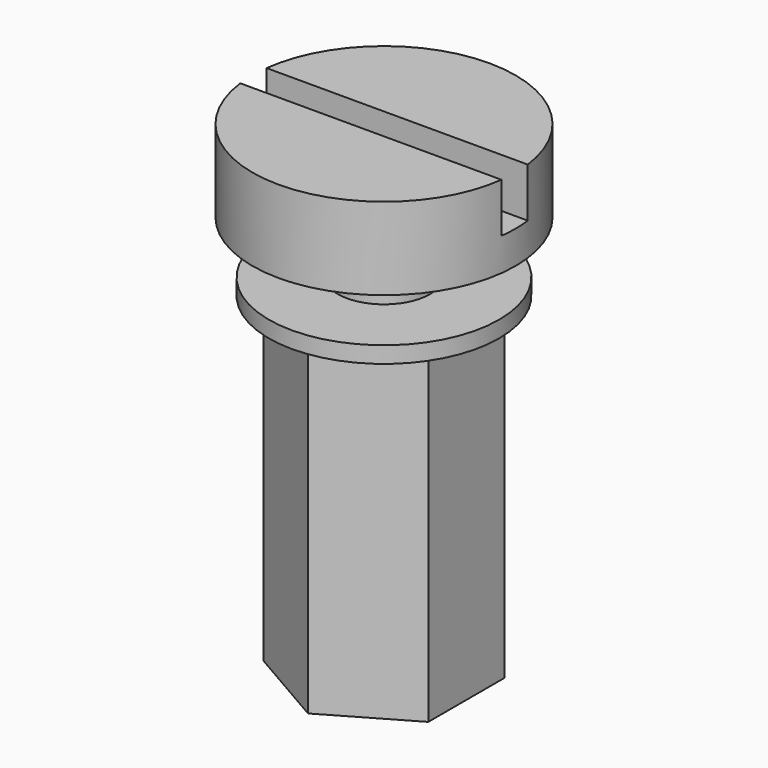
from build123d import *

# Parameters (mm, degrees)
PAD_DEPTH               = 10
SKETCH001_R             = 1.5
POCKET_DEPTH            = 10.001
SKETCH003_W             = 8
SKETCH003_H             = 1
POCKET001_DEPTH         = 1.5
BODY002_PLACEMENT_ANGLE = 180
CYLINDER_R              = 3.5
CYLINDER_DEPTH          = 0.5


with BuildPart() as post:
    # Sketch → Pad (new body)
    with BuildSketch(Plane.XY):
        Polygon((2.5, 1.443376), (0, 2.886751), (-2.5, 1.443376), (-2.5, -1.443376), (0, -2.886751), (2.5, -1.443376), align=None)
    extrude(amount=PAD_DEPTH)

    # Sketch001 (on Face8 of Pad) → Pocket (cut, through all)
    with BuildSketch(Plane.XY.offset(10)):
        Circle(SKETCH001_R)
    extrude(amount=-POCKET_DEPTH, mode=Mode.SUBTRACT)


with BuildPart() as post_1:
    # Body placement: moved
    add(post.part.moved(Location((0, 0, 0.5))))


with BuildPart() as screwhead_top:
    # Sketch002 → Revolution (revolve)
    with BuildSketch(Plane.XZ):
        Polygon((1.4, 0), (1.4, 6.6), (0, 6.6), (0, -2.5), (4, -2.5), (4, 0), align=None)
    revolve(axis=Axis((0, 0, 0), (0, 0, 1)))

    # Sketch003 (on Face3 of Revolution) → Pocket001 (cut)
    with BuildSketch(Plane(origin=(0, 0, -2.5), x_dir=(1, 0, 0), z_dir=(0, 0, -1))):
        Rectangle(SKETCH003_W, SKETCH003_H)
    extrude(amount=-POCKET001_DEPTH, mode=Mode.SUBTRACT)


with BuildPart() as screwhead_top_1:
    # Body001 placement: moved
    add(screwhead_top.part.moved(Location((0, 0, -1.6))))


with BuildPart() as screwhead_top_2:
    # Body002 placement: moved
    add(screwhead_top_1.part.moved(Location((0, 0, 11))).rotate(Axis((0, 0, 11), (1, 0, 0)), BODY002_PLACEMENT_ANGLE))


with BuildPart() as washer_top:
    # Cylinder → Cylinder (join)
    with BuildSketch(Plane.XY):
        Circle(CYLINDER_R)
    extrude(amount=CYLINDER_DEPTH)


with BuildPart() as washer_top_1:
    # Body004 placement: moved
    add(washer_top.part.moved(Location((0, 0, 10.5))))


solid = Compound([post_1.part, screwhead_top_2.part, washer_top_1.part])
